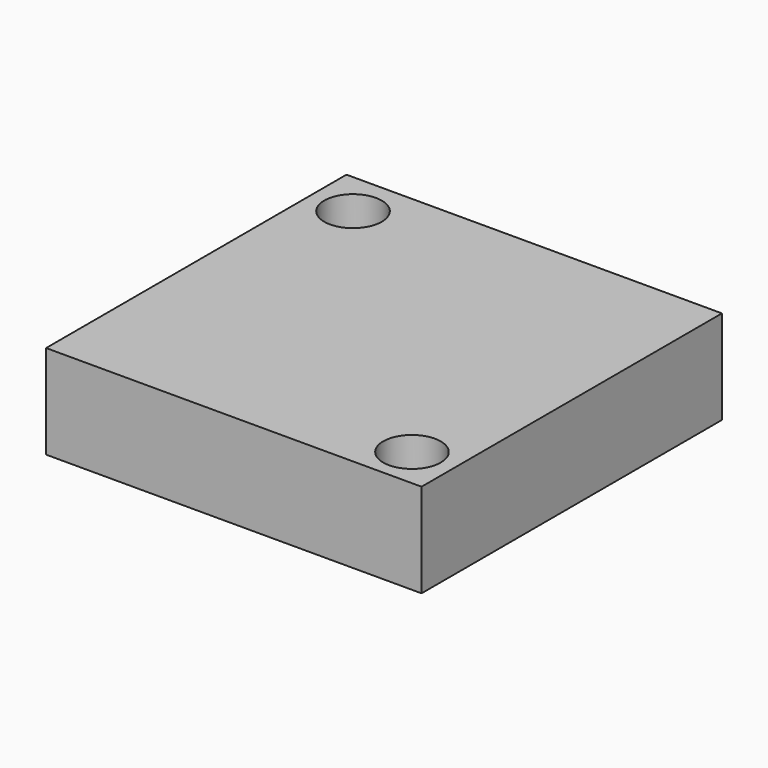
from build123d import *

# Parameters (mm, degrees)
SKETCH_W         = 120
SKETCH_H         = 120
SKETCH_R         = 9.191004
EXTRUDE001_DEPTH = 30


with BuildPart() as part:
    # Sketch → Extrude001 (new body)
    with BuildSketch(Plane.XY):
        with Locations((-6.945789, 2.312527)):
            Rectangle(SKETCH_W, SKETCH_H)
        with Locations((-53.34613, 47.930275)):
            Circle(SKETCH_R, mode=Mode.SUBTRACT)
        with Locations((39.445465, -44.500248)):
            Circle(SKETCH_R, mode=Mode.SUBTRACT)
    extrude(amount=EXTRUDE001_DEPTH)


solid = part.part
